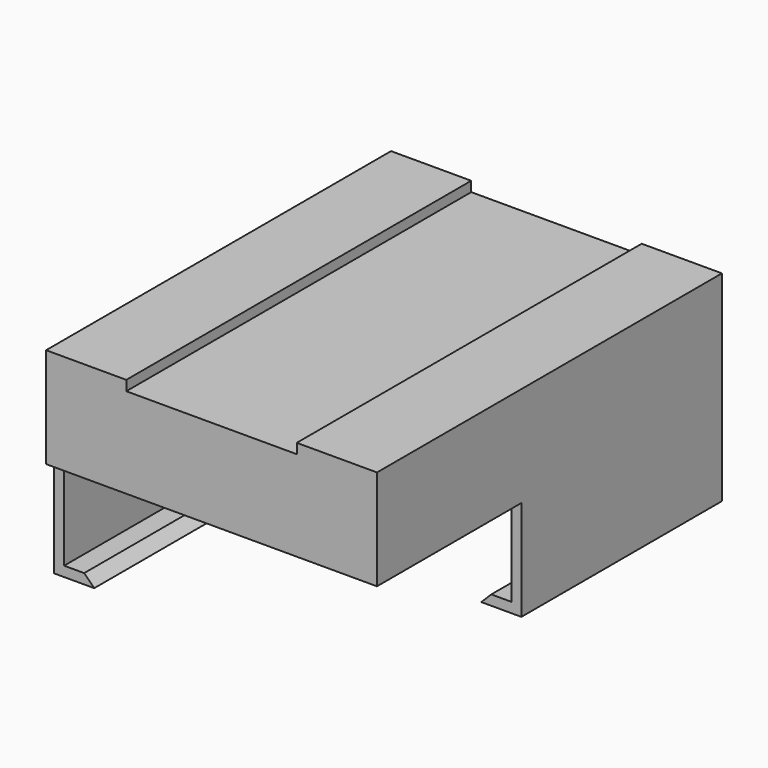
from build123d import *

# Parameters (mm, degrees)
F1_DEPTH = 42
F2_W     = 17
F2_H     = 10
F3_DEPTH = 5
F5_DEPTH = 1


with BuildPart() as f1:
    # F0 (on Front) → F1 (new body)
    with BuildSketch(Plane.XZ):
        Polygon((2, 0), (0, 0), (0, 18), (6, 18), (6, 17), (25, 17), (25, 18), (31, 18), (31, 0), (29, 0), (28, -1), (32, -1), (32, 19), (24, 19), (24, 18), (7, 18), (7, 19), (-1, 19), (-1, -1), (3, -1), align=None)
    extrude(amount=F1_DEPTH)

    # F2 (on face) → F3 (cut)
    with BuildSketch(Plane.YZ.offset(32)):
        with Locations((-33.5, 4)):
            Rectangle(F2_W, F2_H)
    extrude(amount=-F3_DEPTH, mode=Mode.SUBTRACT)

    # F4 (on face) → F5 (join)
    with BuildSketch(Plane.XZ.offset(42)):
        Polygon((-1, 9), (32, 9), (32, 19), (24, 19), (24, 18), (7, 18), (7, 19), (-1, 19), align=None)
    extrude(amount=F5_DEPTH)


solid = f1.part
